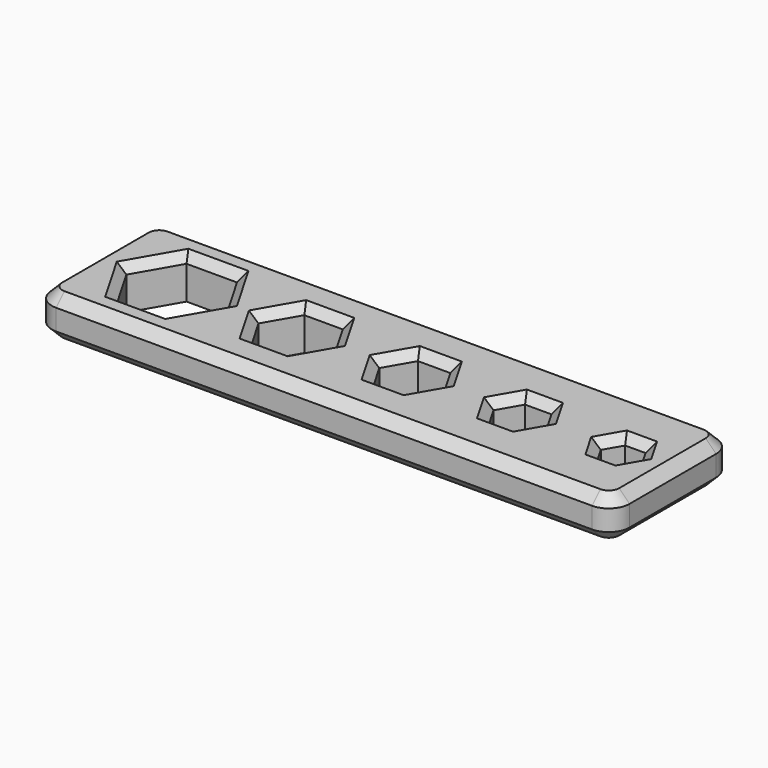
from build123d import *

# Parameters (mm, degrees)
F0_W     = 27.764633
F0_H     = 7.2
F1_DEPTH = 2
F2_R     = 1
F3_SIZE  = 0.5
F4_SIZE  = 0.4


with BuildPart() as f1:
    # F0 (on Top) → F1 (new body)
    with BuildSketch(Plane.XY):
        with Locations((9.957446, 0)):
            Rectangle(F0_W, F0_H)
        Polygon((2.424871, 0), (1.212436, -2.1), (-1.212436, -2.1), (-2.424871, 0), (-1.212436, 2.1), (1.212436, 2.1), align=None, mode=Mode.SUBTRACT)
        Polygon((7.619913, 0), (6.696152, -1.6), (4.848632, -1.6), (3.924871, 0), (4.848632, 1.6), (6.696152, 1.6), align=None, mode=Mode.SUBTRACT)
        Polygon((12.848198, 0), (12.068775, -1.35), (10.50993, -1.35), (9.730507, 0), (10.50993, 1.35), (12.068775, 1.35), align=None, mode=Mode.SUBTRACT)
        Polygon((17.762655, 0), (17.12757, -1.1), (15.857399, -1.1), (15.222314, 0), (15.857399, 1.1), (17.12757, 1.1), align=None, mode=Mode.SUBTRACT)
        Polygon((22.339762, 0), (21.849014, -0.85), (20.867519, -0.85), (20.376771, 0), (20.867519, 0.85), (21.849014, 0.85), align=None, mode=Mode.SUBTRACT)
    extrude(amount=F1_DEPTH)

    # F2
    f2_edges = [f1.edges().sort_by_distance(p)[0] for p in [
        (-3.924871, -3.6, 1),
        (23.839762, -3.6, 1),
        (23.839762, 3.6, 1),
        (-3.924871, 3.6, 1),
    ]]
    fillet(f2_edges, radius=F2_R)

    # F3
    f3_edges = [f1.edges().sort_by_distance(p)[0] for p in [
        (9.957445, -3.6, 0),
        (9.957445, -3.6, 2),
    ]]
    chamfer(f3_edges, length=F3_SIZE)

    # F4
    f4_edges = [f1.edges().sort_by_distance(p)[0] for p in [
        (-1.818653, -1.05, 2),
        (-1.818653, 1.05, 2),
        (0, 2.1, 2),
        (1.818653, 1.05, 2),
        (1.818653, -1.05, 2),
        (0, -2.1, 2),
        (4.386751, -0.8, 2),
        (4.386751, 0.8, 2),
        (5.772392, 1.6, 2),
        (7.158033, 0.8, 2),
        (7.158033, -0.8, 2),
        (5.772392, -1.6, 2),
        (11.289353, -1.35, 2),
        (10.120218, -0.675, 2),
        (10.120218, 0.675, 2),
        (11.289353, 1.35, 2),
        (12.458487, 0.675, 2),
        (12.458487, -0.675, 2),
        (15.539857, -0.55, 2),
        (15.539857, 0.55, 2),
        (16.492485, 1.1, 2),
        (17.445113, 0.55, 2),
        (17.445113, -0.55, 2),
        (16.492485, -1.1, 2),
        (21.358266, -0.85, 2),
        (20.622145, -0.425, 2),
        (20.622145, 0.425, 2),
        (21.358266, 0.85, 2),
        (22.094388, 0.425, 2),
        (22.094388, -0.425, 2),
    ]]
    chamfer(f4_edges, length=F4_SIZE)


solid = f1.part
